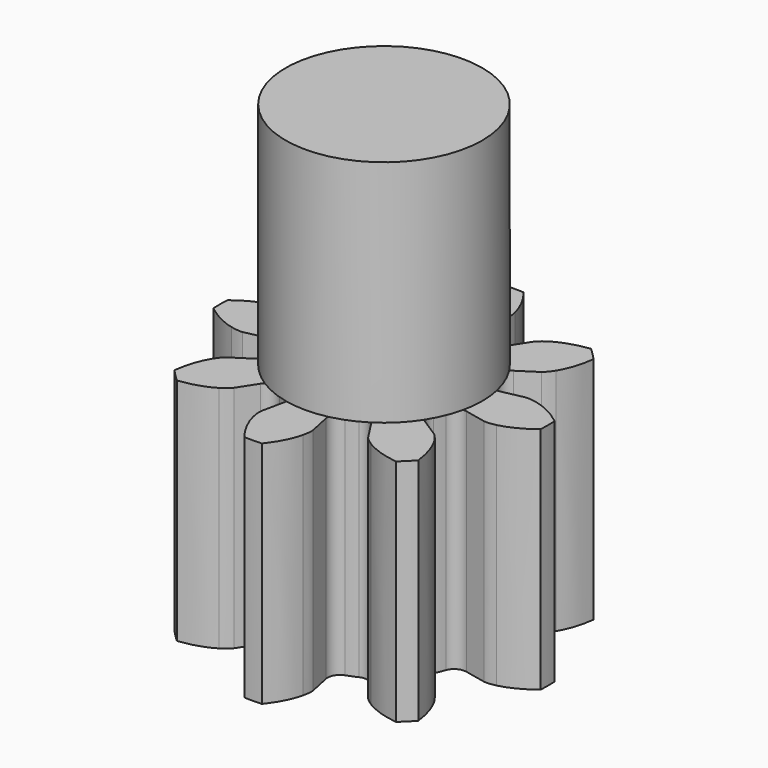
from build123d import *

# Parameters (mm, degrees)
CYLINDER008_R     = 1.5
CYLINDER008_DEPTH = 3.5
PAD003_DEPTH      = 3.5


with BuildPart() as cilindro003:
    # Cylinder008 → Cylinder008 (new body)
    with BuildSketch(Plane.XY.offset(3.5)):
        Circle(CYLINDER008_R)
    extrude(amount=CYLINDER008_DEPTH)


with BuildPart() as obj1:
    # InvoluteGear → Pad003 (new body)
    with BuildSketch(Plane.XY):
        with BuildLine():
            Line((1.516724, -0.325267), (1.845222, -0.395226))
            add(Edge.make_bspline(
                [(1.845222, -0.395226), (1.864718, -0.397608), (1.92309, -0.401319), (2.022572, -0.37827)],
                knots=[0, 0, 0, 0, 1, 1, 1, 1], degree=3))
            add(Edge.make_bspline(
                [(2.022572, -0.37827), (2.14022, -0.349851), (2.305709, -0.283981), (2.497262, -0.134814)],
                knots=[0, 0, 0, 0, 1, 1, 1, 1], degree=3))
            ThreePointArc((2.497262, -0.134814), (2.5009, 0), (2.497262, 0.134814))
            add(Edge.make_bspline(
                [(2.497262, 0.134814), (2.305709, 0.283981), (2.14022, 0.349851), (2.022572, 0.37827)],
                knots=[0, 0, 0, 0, 1, 1, 1, 1], degree=3))
            add(Edge.make_bspline(
                [(2.022572, 0.37827), (1.92309, 0.401319), (1.864718, 0.397608), (1.845222, 0.395226)],
                knots=[0, 0, 0, 0, 1, 1, 1, 1], degree=3))
            Line((1.845222, 0.395226), (1.516724, 0.325267))
            ThreePointArc((1.516724, 0.325267), (1.385735, 0.345034), (1.300504, 0.446447))
            ThreePointArc((1.300504, 0.446447), (1.270334, 0.52619), (1.235281, 0.603909))
            ThreePointArc((1.235281, 0.603909), (1.223838, 0.735886), (1.302484, 0.842487))
            Line((1.302484, 0.842487), (1.584236, 1.025302))
            add(Edge.make_bspline(
                [(1.584236, 1.025302), (1.599706, 1.037403), (1.643605, 1.076055), (1.697651, 1.162697)],
                knots=[0, 0, 0, 0, 1, 1, 1, 1], degree=3))
            add(Edge.make_bspline(
                [(1.697651, 1.162697), (1.760746, 1.265982), (1.831187, 1.429578), (1.861159, 1.670503)],
                knots=[0, 0, 0, 0, 1, 1, 1, 1], degree=3))
            ThreePointArc((1.861159, 1.670503), (1.768403, 1.768403), (1.670503, 1.861159))
            add(Edge.make_bspline(
                [(1.670503, 1.861159), (1.429578, 1.831187), (1.265982, 1.760746), (1.162697, 1.697651)],
                knots=[0, 0, 0, 0, 1, 1, 1, 1], degree=3))
            add(Edge.make_bspline(
                [(1.162697, 1.697651), (1.076055, 1.643605), (1.037403, 1.599706), (1.025302, 1.584236)],
                knots=[0, 0, 0, 0, 1, 1, 1, 1], degree=3))
            Line((1.025302, 1.584236), (0.842487, 1.302484))
            ThreePointArc((0.842487, 1.302484), (0.735886, 1.223838), (0.603909, 1.235281))
            ThreePointArc((0.603909, 1.235281), (0.52619, 1.270334), (0.446447, 1.300504))
            ThreePointArc((0.446447, 1.300504), (0.345034, 1.385735), (0.325267, 1.516724))
            Line((0.325267, 1.516724), (0.395226, 1.845222))
            add(Edge.make_bspline(
                [(0.395226, 1.845222), (0.397608, 1.864718), (0.401319, 1.92309), (0.37827, 2.022572)],
                knots=[0, 0, 0, 0, 1, 1, 1, 1], degree=3))
            add(Edge.make_bspline(
                [(0.37827, 2.022572), (0.349851, 2.14022), (0.283981, 2.305709), (0.134814, 2.497262)],
                knots=[0, 0, 0, 0, 1, 1, 1, 1], degree=3))
            ThreePointArc((0.134814, 2.497262), (0, 2.5009), (-0.134814, 2.497262))
            add(Edge.make_bspline(
                [(-0.134814, 2.497262), (-0.283981, 2.305709), (-0.349851, 2.14022), (-0.37827, 2.022572)],
                knots=[0, 0, 0, 0, 1, 1, 1, 1], degree=3))
            add(Edge.make_bspline(
                [(-0.37827, 2.022572), (-0.401319, 1.92309), (-0.397608, 1.864718), (-0.395226, 1.845222)],
                knots=[0, 0, 0, 0, 1, 1, 1, 1], degree=3))
            Line((-0.395226, 1.845222), (-0.325267, 1.516724))
            ThreePointArc((-0.325267, 1.516724), (-0.345034, 1.385735), (-0.446447, 1.300504))
            ThreePointArc((-0.446447, 1.300504), (-0.52619, 1.270334), (-0.603909, 1.235281))
            ThreePointArc((-0.603909, 1.235281), (-0.735886, 1.223838), (-0.842487, 1.302484))
            Line((-0.842487, 1.302484), (-1.025302, 1.584236))
            add(Edge.make_bspline(
                [(-1.025302, 1.584236), (-1.037403, 1.599706), (-1.076055, 1.643605), (-1.162697, 1.697651)],
                knots=[0, 0, 0, 0, 1, 1, 1, 1], degree=3))
            add(Edge.make_bspline(
                [(-1.162697, 1.697651), (-1.265982, 1.760746), (-1.429578, 1.831187), (-1.670503, 1.861159)],
                knots=[0, 0, 0, 0, 1, 1, 1, 1], degree=3))
            ThreePointArc((-1.670503, 1.861159), (-1.768403, 1.768403), (-1.861159, 1.670503))
            add(Edge.make_bspline(
                [(-1.861159, 1.670503), (-1.831187, 1.429578), (-1.760746, 1.265982), (-1.697651, 1.162697)],
                knots=[0, 0, 0, 0, 1, 1, 1, 1], degree=3))
            add(Edge.make_bspline(
                [(-1.697651, 1.162697), (-1.643605, 1.076055), (-1.599706, 1.037403), (-1.584236, 1.025302)],
                knots=[0, 0, 0, 0, 1, 1, 1, 1], degree=3))
            Line((-1.584236, 1.025302), (-1.302484, 0.842487))
            ThreePointArc((-1.302484, 0.842487), (-1.223838, 0.735886), (-1.235281, 0.603909))
            ThreePointArc((-1.235281, 0.603909), (-1.270334, 0.52619), (-1.300504, 0.446447))
            ThreePointArc((-1.300504, 0.446447), (-1.385735, 0.345034), (-1.516724, 0.325267))
            Line((-1.516724, 0.325267), (-1.845222, 0.395226))
            add(Edge.make_bspline(
                [(-1.845222, 0.395226), (-1.864718, 0.397608), (-1.92309, 0.401319), (-2.022572, 0.37827)],
                knots=[0, 0, 0, 0, 1, 1, 1, 1], degree=3))
            add(Edge.make_bspline(
                [(-2.022572, 0.37827), (-2.14022, 0.349851), (-2.305709, 0.283981), (-2.497262, 0.134814)],
                knots=[0, 0, 0, 0, 1, 1, 1, 1], degree=3))
            ThreePointArc((-2.497262, 0.134814), (-2.5009, 0), (-2.497262, -0.134814))
            add(Edge.make_bspline(
                [(-2.497262, -0.134814), (-2.305709, -0.283981), (-2.14022, -0.349851), (-2.022572, -0.37827)],
                knots=[0, 0, 0, 0, 1, 1, 1, 1], degree=3))
            add(Edge.make_bspline(
                [(-2.022572, -0.37827), (-1.92309, -0.401319), (-1.864718, -0.397608), (-1.845222, -0.395226)],
                knots=[0, 0, 0, 0, 1, 1, 1, 1], degree=3))
            Line((-1.845222, -0.395226), (-1.516724, -0.325267))
            ThreePointArc((-1.516724, -0.325267), (-1.385735, -0.345034), (-1.300504, -0.446447))
            ThreePointArc((-1.300504, -0.446447), (-1.270334, -0.52619), (-1.235281, -0.603909))
            ThreePointArc((-1.235281, -0.603909), (-1.223838, -0.735886), (-1.302484, -0.842487))
            Line((-1.302484, -0.842487), (-1.584236, -1.025302))
            add(Edge.make_bspline(
                [(-1.584236, -1.025302), (-1.599706, -1.037403), (-1.643605, -1.076055), (-1.697651, -1.162697)],
                knots=[0, 0, 0, 0, 1, 1, 1, 1], degree=3))
            add(Edge.make_bspline(
                [(-1.697651, -1.162697), (-1.760746, -1.265982), (-1.831187, -1.429578), (-1.861159, -1.670503)],
                knots=[0, 0, 0, 0, 1, 1, 1, 1], degree=3))
            ThreePointArc((-1.861159, -1.670503), (-1.768403, -1.768403), (-1.670503, -1.861159))
            add(Edge.make_bspline(
                [(-1.670503, -1.861159), (-1.429578, -1.831187), (-1.265982, -1.760746), (-1.162697, -1.697651)],
                knots=[0, 0, 0, 0, 1, 1, 1, 1], degree=3))
            add(Edge.make_bspline(
                [(-1.162697, -1.697651), (-1.076055, -1.643605), (-1.037403, -1.599706), (-1.025302, -1.584236)],
                knots=[0, 0, 0, 0, 1, 1, 1, 1], degree=3))
            Line((-1.025302, -1.584236), (-0.842487, -1.302484))
            ThreePointArc((-0.842487, -1.302484), (-0.735886, -1.223838), (-0.603909, -1.235281))
            ThreePointArc((-0.603909, -1.235281), (-0.52619, -1.270334), (-0.446447, -1.300504))
            ThreePointArc((-0.446447, -1.300504), (-0.345034, -1.385735), (-0.325267, -1.516724))
            Line((-0.325267, -1.516724), (-0.395226, -1.845222))
            add(Edge.make_bspline(
                [(-0.395226, -1.845222), (-0.397608, -1.864718), (-0.401319, -1.92309), (-0.37827, -2.022572)],
                knots=[0, 0, 0, 0, 1, 1, 1, 1], degree=3))
            add(Edge.make_bspline(
                [(-0.37827, -2.022572), (-0.349851, -2.14022), (-0.283981, -2.305709), (-0.134814, -2.497262)],
                knots=[0, 0, 0, 0, 1, 1, 1, 1], degree=3))
            ThreePointArc((-0.134814, -2.497262), (0, -2.5009), (0.134814, -2.497262))
            add(Edge.make_bspline(
                [(0.134814, -2.497262), (0.283981, -2.305709), (0.349851, -2.14022), (0.37827, -2.022572)],
                knots=[0, 0, 0, 0, 1, 1, 1, 1], degree=3))
            add(Edge.make_bspline(
                [(0.37827, -2.022572), (0.401319, -1.92309), (0.397608, -1.864718), (0.395226, -1.845222)],
                knots=[0, 0, 0, 0, 1, 1, 1, 1], degree=3))
            Line((0.395226, -1.845222), (0.325267, -1.516724))
            ThreePointArc((0.325267, -1.516724), (0.345034, -1.385735), (0.446447, -1.300504))
            ThreePointArc((0.446447, -1.300504), (0.52619, -1.270334), (0.603909, -1.235281))
            ThreePointArc((0.603909, -1.235281), (0.735886, -1.223838), (0.842487, -1.302484))
            Line((0.842487, -1.302484), (1.025302, -1.584236))
            add(Edge.make_bspline(
                [(1.025302, -1.584236), (1.037403, -1.599706), (1.076055, -1.643605), (1.162697, -1.697651)],
                knots=[0, 0, 0, 0, 1, 1, 1, 1], degree=3))
            add(Edge.make_bspline(
                [(1.162697, -1.697651), (1.265982, -1.760746), (1.429578, -1.831187), (1.670503, -1.861159)],
                knots=[0, 0, 0, 0, 1, 1, 1, 1], degree=3))
            ThreePointArc((1.670503, -1.861159), (1.768403, -1.768403), (1.861159, -1.670503))
            add(Edge.make_bspline(
                [(1.861159, -1.670503), (1.831187, -1.429578), (1.760746, -1.265982), (1.697651, -1.162697)],
                knots=[0, 0, 0, 0, 1, 1, 1, 1], degree=3))
            add(Edge.make_bspline(
                [(1.697651, -1.162697), (1.643605, -1.076055), (1.599706, -1.037403), (1.584236, -1.025302)],
                knots=[0, 0, 0, 0, 1, 1, 1, 1], degree=3))
            Line((1.584236, -1.025302), (1.302484, -0.842487))
            ThreePointArc((1.302484, -0.842487), (1.223838, -0.735886), (1.235281, -0.603909))
            ThreePointArc((1.235281, -0.603909), (1.270334, -0.52619), (1.300504, -0.446447))
            ThreePointArc((1.300504, -0.446447), (1.385735, -0.345034), (1.516724, -0.325267))
        make_face()
    extrude(amount=PAD003_DEPTH)

    # Fusion004: union Cilindro003
    add(cilindro003.part)


with BuildPart() as obj1_1:
    # Fusion004 placement: moved
    add(obj1.part.moved(Location((0, 0, -9.95))))


solid = obj1_1.part
